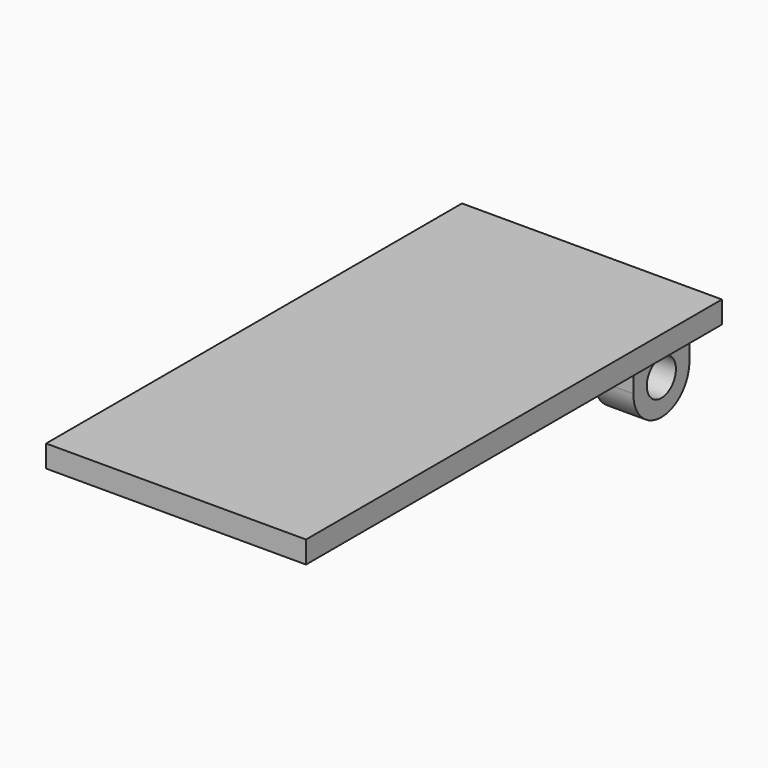
from build123d import *

# Parameters (mm, degrees)
F1_DEPTH      = 12.7
F1_DEPTH_BACK = 12.7
F0_R          = 1.778
F2_DEPTH      = 2.286
F2_DEPTH_BACK = 2.286
F4_R          = 1.778
F5_DEPTH      = 3.81
F7_R          = 1.778
F8_DEPTH      = 3.81


with BuildPart() as f1:
    # F0 (on Right) → F1 (new body, two sides)
    with BuildSketch(Plane.YZ) as f1_sk:
        Polygon((20.2659536765, 17.9712367281), (-30.5340463235, 17.9712367281), (-30.5340463235, 15.8122367281), (13.4079536765, 15.8122367281), (20.2659536765, 15.8122367281), align=None)
    extrude(amount=F1_DEPTH)
    extrude(f1_sk.sketch, amount=-F1_DEPTH_BACK)

    # F0 (on Right) → F2 (join, two sides)
    with BuildSketch(Plane.YZ) as f2_sk:
        with BuildLine():
            Line((20.2659536765, 11.6212367281), (20.2659536765, 15.8122367281))
            Line((20.2659536765, 15.8122367281), (13.4079536765, 15.8122367281))
            Line((13.4079536765, 15.8122367281), (13.4079536765, 11.6212367281))
            ThreePointArc((13.4079536765, 11.6212367281), (16.8369536765, 15.0502367281), (20.2659536765, 11.6212367281))
        make_face()
        with BuildLine():
            ThreePointArc((13.4079536765, 11.6212367281), (16.8369536765, 8.1922367281), (20.2659536765, 11.6212367281))
            ThreePointArc((20.2659536765, 11.6212367281), (16.8369536765, 15.0502367281), (13.4079536765, 11.6212367281))
        make_face()
        with Locations((16.8369536765, 11.6212367281)):
            Circle(F0_R, mode=Mode.SUBTRACT)
    extrude(amount=F2_DEPTH)
    extrude(f2_sk.sketch, amount=-F2_DEPTH_BACK)

    # F4 (on offset) → F5 (join)
    with BuildSketch(Plane.YZ.offset(9.525)):
        with BuildLine():
            Line((20.2659536765, 15.8122367281), (13.4079536765, 15.8122367281))
            Line((13.4079536765, 15.8122367281), (13.4079536765, 11.6212367281))
            ThreePointArc((13.4079536765, 11.6212367281), (16.8369536765, 8.1922367281), (20.2659536765, 11.6212367281))
            Line((20.2659536765, 11.6212367281), (20.2659536765, 15.8122367281))
        make_face()
        with Locations((16.8369536765, 11.6212367281)):
            Circle(F4_R, mode=Mode.SUBTRACT)
    extrude(amount=-F5_DEPTH)

    # F7 (on offset) → F8 (join)
    with BuildSketch(Plane(origin=(-9.525, 0, 0), x_dir=(0, -1, 0), z_dir=(-1, 0, 0))):
        with BuildLine():
            Line((-13.4079536765, 11.6212367281), (-13.4079536765, 15.8122367281))
            Line((-13.4079536765, 15.8122367281), (-20.2659536765, 15.8122367281))
            Line((-20.2659536765, 15.8122367281), (-20.2659536765, 11.6212367281))
            ThreePointArc((-20.2659536765, 11.6212367281), (-16.8369536765, 8.1922367281), (-13.4079536765, 11.6212367281))
        make_face()
        with Locations((-16.8369536765, 11.6212367281)):
            Circle(F7_R, mode=Mode.SUBTRACT)
    extrude(amount=-F8_DEPTH)


solid = f1.part
